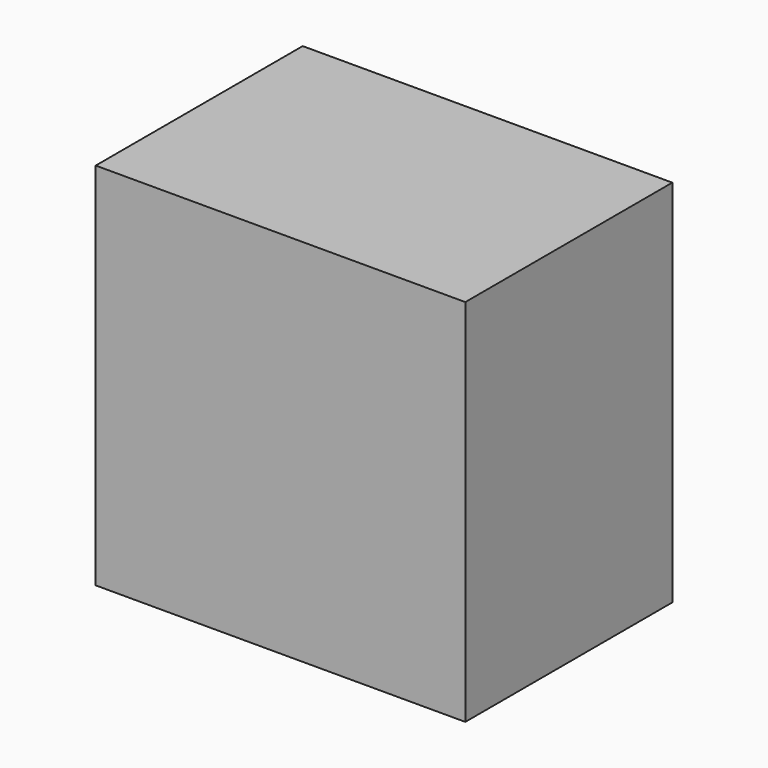
from build123d import *

# Parameters (mm, degrees)
F0_W      = 50
F0_H      = 50
F1_DEPTH  = 10
F4_W      = 8.573553
F4_H      = 29.909224
F4_W_2    = 50
F4_H_2    = 50
F4_W_3    = 8.573554
F3_W      = 8.573554
F3_H      = 29.909224
F2_W      = 8.573554
F2_H      = 29.909224
F1_FACE_W = 50
F1_FACE_H = 50
F5_DEPTH  = 25


with BuildPart() as f1:
    # F0 (on Front) → F1 (new body)
    with BuildSketch(Plane.XZ):
        with Locations((-1.159032, 2.83322)):
            Rectangle(F0_W, F0_H)
    extrude(amount=F1_DEPTH)

    # F4 (on face) + F3 (on face) + F2 (on face) + F1_face (on face) → F5 (join)
    with BuildSketch(Plane(origin=(0, 0, 0), x_dir=(-1, 0, 0), z_dir=(0, 1, 0))):
        with Locations((10.710032, 3.653107)):
            Rectangle(F4_W, F4_H)
        with Locations((1.159032, 2.83322)):
            Rectangle(F4_W_2, F4_H_2)
        with Locations((-11.319989, 3.952037)):
            Rectangle(F4_W_3, F4_H, mode=Mode.SUBTRACT)
        with Locations((10.710032, 3.653107)):
            Rectangle(F4_W, F4_H, mode=Mode.SUBTRACT)
        with Locations((-11.319989, 3.952037)):
            Rectangle(F4_W_3, F4_H)
    with BuildSketch(Plane(origin=(0, 0, 0), x_dir=(-1, 0, 0), z_dir=(0, 1, 0))):
        with Locations((-11.319989, 3.952037)):
            Rectangle(F3_W, F3_H)
    with BuildSketch(Plane(origin=(0, 0, 0), x_dir=(-1, 0, 0), z_dir=(0, 1, 0))):
        with Locations((-11.319989, 3.952037)):
            Rectangle(F2_W, F2_H)
    with BuildSketch(Plane(origin=(-1.159032, 0, 2.83322), x_dir=(1, 0, 0), z_dir=(0, 1, 0))):
        Rectangle(F1_FACE_W, F1_FACE_H)
        Rectangle(F1_FACE_W, F1_FACE_H)
    extrude(amount=F5_DEPTH)


solid = f1.part
